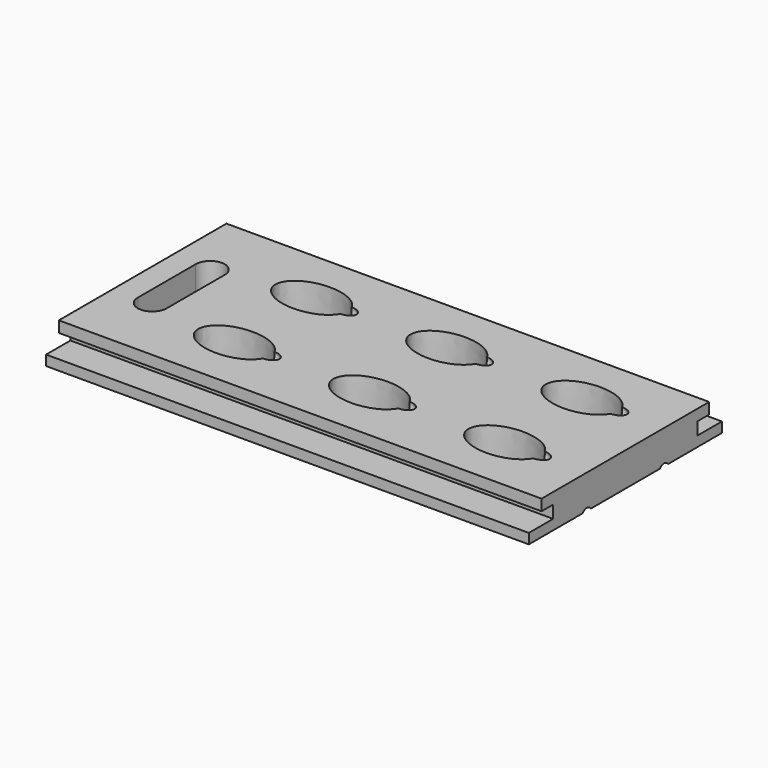
from build123d import *

# Parameters (mm, degrees)
SKETCH_W               = 100
SKETCH_H               = 50
PAD_DEPTH              = 7
POCKET_DEPTH           = 21
POCKET001_DEPTH        = 274.045639
POCKET001_DEPTH_BACK   = 274.045639
POCKET002_DEPTH        = 7.001
SKETCH005_R            = 1.5
POCKET003_DEPTH        = 18
LINEARPATTERN_COUNT    = 2
LINEARPATTERN_PITCH    = 28
LINEARPATTERN001_COUNT = 2
LINEARPATTERN001_PITCH = 56


with BuildPart() as part:
    # Sketch → Pad (new body)
    with BuildSketch(Plane.XY):
        Rectangle(SKETCH_W, SKETCH_H)
    extrude(amount=-PAD_DEPTH)

    # Sketch001 → Pocket (cut)
    with BuildSketch(Plane.XY):
        with BuildLine():
            add(Edge.make_bspline(
                [(-15.5, 10), (-15.5, 18.227241), (-26.75, 14.113621), (-38, 10), (-26.75, 5.886379), (-15.5, 1.772759), (-15.5, 10)],
                knots=[0, 0, 0, 2.094395, 2.094395, 4.18879, 4.18879, 6.283185, 6.283185, 6.283185], degree=2, weights=[1, 0.5, 1, 0.5, 1, 0.5, 1]))
        make_face()
        with BuildLine():
            add(Edge.make_bspline(
                [(12.5, 10), (12.5, 18.227241), (1.25, 14.113621), (-10, 10), (1.25, 5.886379), (12.5, 1.772759), (12.5, 10)],
                knots=[0, 0, 0, 2.094395, 2.094395, 4.18879, 4.18879, 6.283185, 6.283185, 6.283185], degree=2, weights=[1, 0.5, 1, 0.5, 1, 0.5, 1]))
        make_face()
        with BuildLine():
            add(Edge.make_bspline(
                [(40.5, 10), (40.5, 18.227241), (29.25, 14.113621), (18, 10), (29.25, 5.886379), (40.5, 1.772759), (40.5, 10)],
                knots=[0, 0, 0, 2.094395, 2.094395, 4.18879, 4.18879, 6.283185, 6.283185, 6.283185], degree=2, weights=[1, 0.5, 1, 0.5, 1, 0.5, 1]))
        make_face()
        with BuildLine():
            add(Edge.make_bspline(
                [(-15.5, -10), (-15.5, -1.772759), (-26.75, -5.886379), (-38, -10), (-26.75, -14.113621), (-15.5, -18.227241), (-15.5, -10)],
                knots=[0, 0, 0, 2.094395, 2.094395, 4.18879, 4.18879, 6.283185, 6.283185, 6.283185], degree=2, weights=[1, 0.5, 1, 0.5, 1, 0.5, 1]))
        make_face()
        with BuildLine():
            add(Edge.make_bspline(
                [(12.5, -10), (12.5, -1.772759), (1.25, -5.886379), (-10, -10), (1.25, -14.113621), (12.5, -18.227241), (12.5, -10)],
                knots=[0, 0, 0, 2.094395, 2.094395, 4.18879, 4.18879, 6.283185, 6.283185, 6.283185], degree=2, weights=[1, 0.5, 1, 0.5, 1, 0.5, 1]))
        make_face()
        with BuildLine():
            add(Edge.make_bspline(
                [(40.5, -10), (40.5, -1.772759), (29.25, -5.886379), (18, -10), (29.25, -14.113621), (40.5, -18.227241), (40.5, -10)],
                knots=[0, 0, 0, 2.094395, 2.094395, 4.18879, 4.18879, 6.283185, 6.283185, 6.283185], degree=2, weights=[1, 0.5, 1, 0.5, 1, 0.5, 1]))
        make_face()
    extrude(amount=-POCKET_DEPTH, mode=Mode.SUBTRACT)

    # Sketch003 → Pocket001 (cut, two sides)
    with BuildSketch(Plane.YZ) as pocket001_sk:
        Polygon((-25, 0), (-25, -4.9), (-18.7, -4.9), (-18.7, -2.3), (-21.7, -2.3), (-21.7, 0), align=None)
    pocket001 = extrude(amount=-POCKET001_DEPTH, mode=Mode.SUBTRACT) + extrude(pocket001_sk.sketch, amount=POCKET001_DEPTH_BACK, mode=Mode.SUBTRACT)

    # Mirrored: Pocket001 across Sketch003 V_Axis
    add(pocket001.mirror(Plane(origin=(0, 0, 0), x_dir=(1, 0, 0), z_dir=(0, 1, 0))), mode=Mode.SUBTRACT)

    # Sketch004 → Pocket002 (cut, through all)
    with BuildSketch(Plane.XY):
        with BuildLine():
            ThreePointArc((-39, 7.5), (-42, 10.5), (-45, 7.5))
            Line((-45, 7.5), (-45, -7.5))
            ThreePointArc((-45, -7.5), (-42, -10.5), (-39, -7.5))
            Line((-39, -7.5), (-39, 7.5))
        make_face()
    extrude(amount=-POCKET002_DEPTH, mode=Mode.SUBTRACT)

    # Sketch005 (on DatumPlane) → Pocket003 (cut)
    with BuildSketch(Plane(origin=(-16, 0, 0), x_dir=(0, 1, 0), z_dir=(0.766044, 0, -0.642788))):
        with Locations((-10, 0)):
            Circle(SKETCH005_R)
        with Locations((10, 0)):
            Circle(SKETCH005_R)
    pocket003 = extrude(amount=POCKET003_DEPTH, mode=Mode.SUBTRACT)

    # LinearPattern: Pocket003 ×2
    with Locations(*[(i * LINEARPATTERN_PITCH, 0, 0) for i in range(1, LINEARPATTERN_COUNT)]):
        add(pocket003, mode=Mode.SUBTRACT)

    # LinearPattern001: Pocket003 ×2
    with Locations(*[(i * LINEARPATTERN001_PITCH, 0, 0) for i in range(1, LINEARPATTERN001_COUNT)]):
        add(pocket003, mode=Mode.SUBTRACT)


solid = part.part
